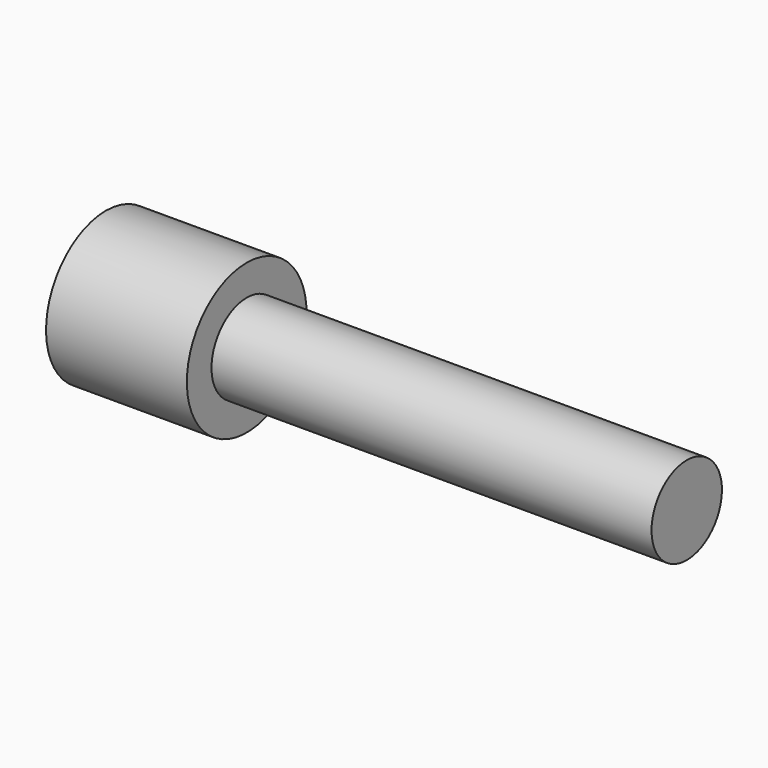
from build123d import *

# Parameters (mm, degrees)
F3_D     = 3
F3_DEPTH = 5
F3_TIP   = 0.9012909285
F4_DEPTH = 3


with BuildPart() as f1:
    # F0 (on Front) → F1 (revolve)
    with BuildSketch(Plane.XZ):
        Polygon((-8, 4.25), (-8, 0), (25, 0), (25, 2.5), (0, 2.5), (0, 4.25), align=None)
    revolve(axis=Axis((8.5, 0, 0), (-1, 0, 0)))

    # F3
    with Locations(Plane(origin=(-8, 0, 0), x_dir=(0, -1, 0), z_dir=(-1, 0, 0))):
        with Locations((0, 0)):
            Hole(F3_D / 2, depth=F3_DEPTH)
            with Locations((0, 0, -(F3_DEPTH + F3_TIP / 2))):  # 118° drill point
                Cone(0, F3_D / 2, F3_TIP, mode=Mode.SUBTRACT)

    # F2 (on face) → F4 (cut)
    with BuildSketch(Plane(origin=(-8, 0, 0), x_dir=(0, -1, 0), z_dir=(-1, 0, 0))):
        Polygon((-1.1547005384, -2), (1.1547005384, -2), (2.3094010768, 0), (1.1547005384, 2), (-1.1547005384, 2), (-2.3094010768, 0), align=None)
    extrude(amount=-F4_DEPTH, mode=Mode.SUBTRACT)


solid = f1.part
